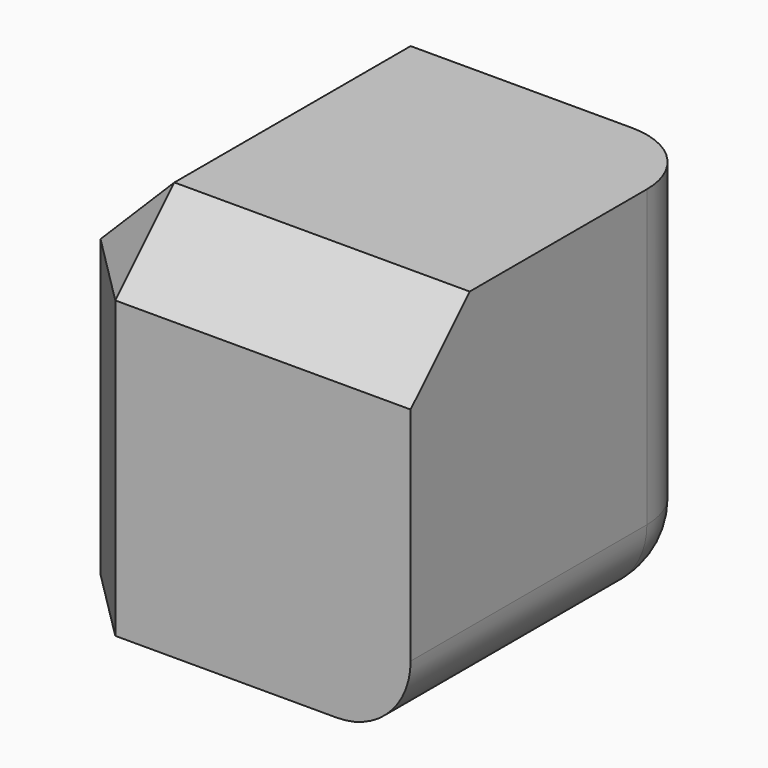
from build123d import *

# Parameters (mm, degrees)
F0_W     = 25.4
F0_H     = 25.4
F1_DEPTH = 12.7
F2_SIZE  = 5.08
F3_R     = 5.08


with BuildPart() as f1:
    # F0 (on Front) → F1 (new body, symmetric)
    with BuildSketch(Plane.XZ):
        Rectangle(F0_W, F0_H)
    extrude(amount=F1_DEPTH, both=True)

    # F2
    f2_edges = [f1.edges().sort_by_distance(p)[0] for p in [
        (0, -12.7, 12.7),
        (-12.7, 0, 12.7),
        (-12.7, -12.7, 0),
    ]]
    chamfer(f2_edges, length=F2_SIZE)

    # F3
    f3_edges = [f1.edges().sort_by_distance(p)[0] for p in [
        (12.7, 12.7, 0),
        (12.7, 0, -12.7),
        (0, 12.7, -12.7),
    ]]
    fillet(f3_edges, radius=F3_R)


solid = f1.part
